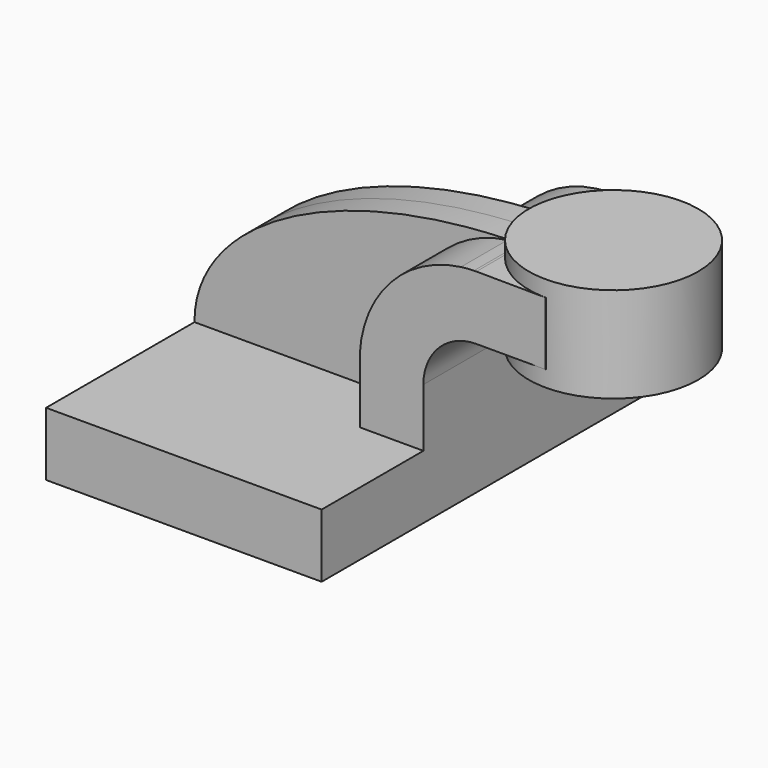
from build123d import *

# Parameters (mm, degrees)
F1_DEPTH = 63.5
F2_DEPTH = 7.9375
F3_DEPTH = 25.4


with BuildPart() as f1:
    # F0 (on Front) → F1 (new body, symmetric)
    with BuildSketch(Plane.XZ):
        Polygon((41.275, -9.525), (41.275, 9.525), (22.225, 9.525), (-41.275, 9.525), (-41.275, -9.525), align=None)
    extrude(amount=F1_DEPTH, both=True)

    # F0 (on Front) → F2 (join, symmetric)
    with BuildSketch(Plane.XZ):
        with BuildLine():
            Line((-41.275, 9.525), (22.225, 9.525))
            Line((22.225, 9.525), (22.225, 28.890748))
            ThreePointArc((22.225, 28.890748), (31.463341, 50.738889), (52.516632, 61.668077))
            Line((52.516632, 61.668077), (52.516632, 61.88385))
            add(Edge.make_bspline(
                [(-41.275, 9.525), (-41.415625, 36.708206), (-2.225033, 60.169172), (52.516632, 61.88385)],
                knots=[0, 0, 0, 0, 108.491455, 108.491455, 108.491455, 108.491455], degree=3))
        make_face()
    extrude(amount=F2_DEPTH, both=True)

    # F0 (on Front) → F3 (join, symmetric)
    with BuildSketch(Plane.XZ):
        with BuildLine():
            Line((22.225, 9.525), (41.275, 9.525))
            Line((41.275, 9.525), (41.275, 27.0002))
            ThreePointArc((41.275, 27.0002), (44.391271, 36.446387), (52.516632, 42.183991))
            Line((52.516632, 42.183991), (52.516632, 61.668077))
            ThreePointArc((52.516632, 61.668077), (31.463341, 50.738889), (22.225, 28.890748))
            Line((22.225, 28.890748), (22.225, 9.525))
        make_face()
        with BuildLine():
            Line((52.516632, 61.668077), (52.516632, 42.183991))
            ThreePointArc((52.516632, 42.183991), (54.807679, 42.701447), (57.15, 42.8752))
            Line((57.15, 42.8752), (77.916632, 42.8752))
            Line((77.916632, 42.8752), (77.916632, 61.84097))
            Line((77.916632, 61.84097), (57.15, 61.976332))
            add(Edge.make_bspline(
                [(56.418681, 61.968685), (56.662166, 61.971662), (56.90594, 61.974211), (57.15, 61.976332)],
                knots=[111.052289, 111.052289, 111.052289, 111.052289, 111.528574, 111.528574, 111.528574, 111.528574], degree=3))
            ThreePointArc((56.418681, 61.968685), (54.463449, 61.873001), (52.516632, 61.668077))
        make_face()
    extrude(amount=F3_DEPTH, both=True)


with BuildPart() as f4:
    # F0 (on Front) → F4 (revolve)
    with BuildSketch(Plane.XZ):
        Polygon((77.916632, 61.84097), (77.916632, 42.8752), (77.916632, 38.1), (103.316632, 38.1), (103.316632, 66.675), (77.916632, 66.675), align=None)
    revolve(axis=Axis((77.916632, 0, 52.3875), (0, 0, -1)))


solid = Compound([f1.part, f4.part])
